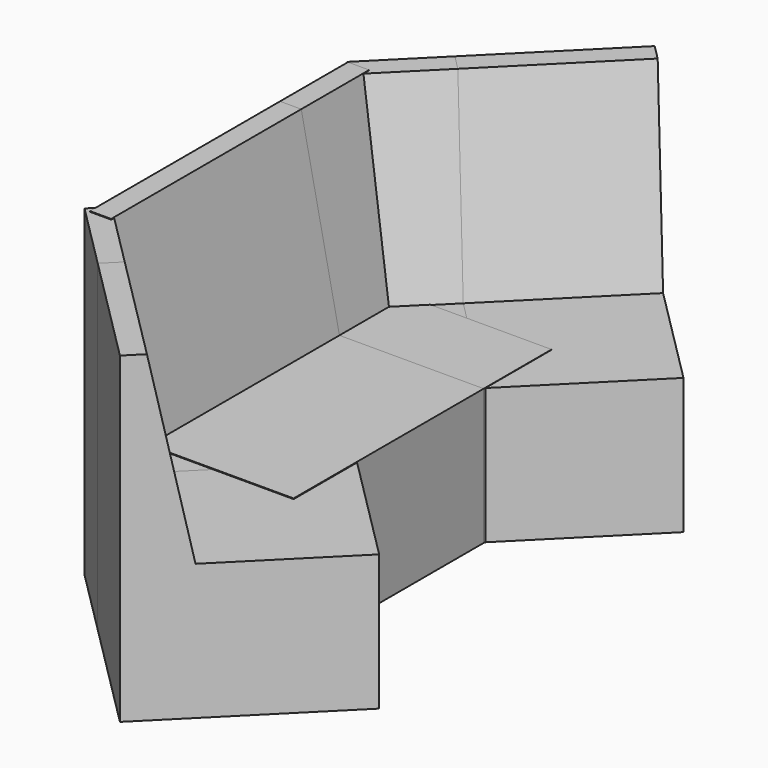
from build123d import *

# Parameters (mm, degrees)
F1_DEPTH  = 711.2
F5_DEPTH  = 469.9
F9_DEPTH  = 469.9
F10_DEPTH = 279.4
F11_DEPTH = 254
F12_DEPTH = 254


with BuildPart() as f1:
    # F0 (on Front) → F1 (new body)
    with BuildSketch(Plane.XZ):
        Polygon((0, 965.2), (0, 0), (609.6, 0), (609.6, 406.4), (177.8, 406.4), (63.5, 965.2), align=None)
    extrude(amount=F1_DEPTH)


with BuildPart() as f5:
    # F4 (on face) → F5 (new body)
    with BuildSketch(Plane(origin=(305.0427138805, 305.0427138805, 0), x_dir=(0.7071067812, -0.7071067812, 0), z_dir=(-0.7071067812, -0.7071067812, 0))):
        Polygon((-182.8315850894, 964.3738703728), (-182.8315850894, -0.8261296272), (426.7684149106, -0.8261296272), (426.7684149106, 405.5738703728), (-5.0315850894, 405.5738703728), (-119.3315850894, 964.3738703728), align=None)
    extrude(amount=-F5_DEPTH)


with BuildPart() as f9:
    # F8 (on face) → F9 (new body)
    with BuildSketch(Plane(origin=(540.15468995, -540.15468995, 0), x_dir=(0.7071067812, 0.7071067812, 0), z_dir=(0.7071067812, -0.7071067812, 0))):
        Polygon((-513.5452967683, 963.2110228688), (-513.5452967683, -1.9889771312), (96.0547032317, -1.9889771312), (96.0547032317, 404.4110228688), (-335.7452967683, 404.4110228688), (-450.0452967683, 963.2110228688), align=None)
    extrude(amount=F9_DEPTH)


with BuildPart() as f10:
    # F10 (new): a face of the model
    f10_faces = [f9.part.faces().sort_by_distance(p)[0] for p in [
        (356.2515923396, -724.0577875605, 295.0116369936),
    ]]
    extrude(f10_faces, amount=F10_DEPTH)


with BuildPart() as f11:
    # F11 (new): a face of the model
    f11_faces = [f5.part.faces().sort_by_distance(p)[0] for p in [
        (354.9895244297, 255.0959033314, 296.1744844976),
    ]]
    extrude(f11_faces, amount=F11_DEPTH)


with BuildPart() as f12:
    # F12 (new): a face of the model
    f12_faces = [f1.part.faces().sort_by_distance(p)[0] for p in [
        (253.4670419652, 0, 297.0006141249),
    ]]
    extrude(f12_faces, amount=F12_DEPTH)


solid = Compound([f1.part, f5.part, f9.part, f10.part, f11.part, f12.part])
